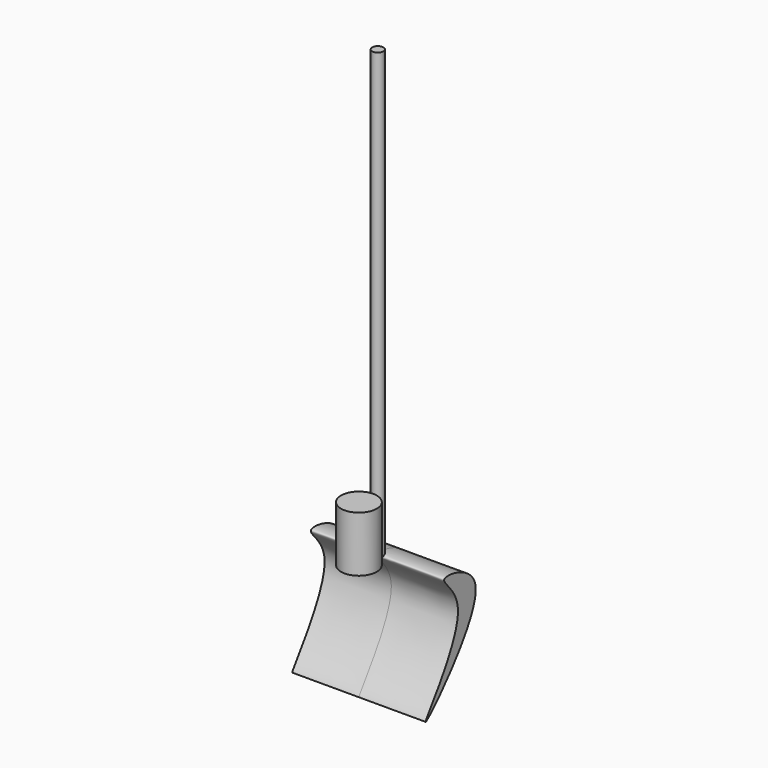
from build123d import *

# Parameters (mm, degrees)
F0_R          = 12.7
F1_DEPTH      = 1016
F3_DEPTH      = 152.4
F3_DEPTH_BACK = 152.4
F4_R          = 40.868395005
F5_DEPTH      = 127


with BuildPart() as f1:
    # F0 (on Top) → F1 (new body)
    with BuildSketch(Plane.XY):
        Circle(F0_R)
    extrude(amount=F1_DEPTH)

    # F2 (on Right) → F3 (join, two sides)
    with BuildSketch(Plane.YZ) as f3_sk:
        with BuildLine():
            add(Edge.make_bspline(
                [(0, 0), (8.9431959115, 8.0290021363), (193.4926907955, -24.8074115359), (-175.7866814159, -398.219565551), (107.1704014267, -72.1916225162), (-8.337567378, -7.4852823255), (0, 0)],
                knots=[0, 0, 0, 0, 0.2005732897, 0.5235799839, 0.8130094282, 1, 1, 1, 1], degree=3))
        make_face()
    extrude(amount=F3_DEPTH)
    extrude(f3_sk.sketch, amount=-F3_DEPTH_BACK)


with BuildPart() as f5:
    # F4 (on Top) → F5 (new body)
    with BuildSketch(Plane.XY):
        with Locations((0, -53.8965091109)):
            Circle(F4_R)
    extrude(amount=F5_DEPTH)


solid = Compound([f1.part, f5.part])
